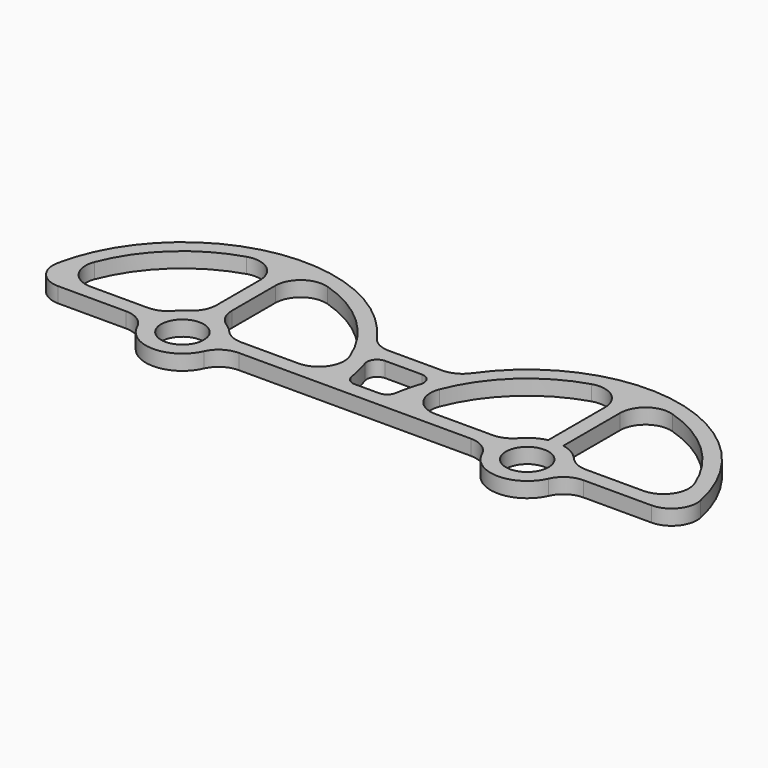
from build123d import *

# Parameters (mm, degrees)
F0_R     = 4.2
F1_DEPTH = 3
F3_DEPTH = 3
F4_R     = 5
F5_R     = 2


with BuildPart() as f1:
    # F0 (on Top) → F1 (new body)
    with BuildSketch(Plane.XY):
        with BuildLine():
            ThreePointArc((6.545227, 3), (7.034402, 1.535312), (7.2, 0))
            Line((7.2, 0), (30, 0))
            Line((30, 0), (38, 0))
            Line((38, 0), (60.8, 0))
            ThreePointArc((60.8, 0), (60.965598, 1.535312), (61.454773, 3))
            Line((61.454773, 3), (41.167184, 3))
            ThreePointArc((41.167184, 3), (68, 27), (94.832816, 3))
            Line((94.832816, 3), (74.545227, 3))
            ThreePointArc((74.545227, 3), (75.034402, 1.535312), (75.2, 0))
            Line((75.2, 0), (98, 0))
            ThreePointArc((98, 0), (75.764571, 28.977775), (42.019238, 15))
            Line((42.019238, 15), (25.980762, 15))
            ThreePointArc((25.980762, 15), (-7.764571, 28.977775), (-30, 0))
            Line((-30, 0), (-7.2, 0))
            ThreePointArc((-7.2, 0), (-7.034402, 1.535312), (-6.545227, 3))
            Line((-6.545227, 3), (-26.832816, 3))
            ThreePointArc((-26.832816, 3), (0, 27), (26.832816, 3))
            Line((26.832816, 3), (6.545227, 3))
        make_face()
        with BuildLine():
            Line((38.150377, 3), (29.849623, 3))
            ThreePointArc((29.849623, 3), (29.023516, 7.591807), (27.495454, 12))
            Line((27.495454, 12), (40.504546, 12))
            ThreePointArc((40.504546, 12), (38.976484, 7.591807), (38.150377, 3))
        make_face(mode=Mode.SUBTRACT)
        with BuildLine():
            ThreePointArc((-7.2, 0), (0, -7.2), (7.2, 0))
            ThreePointArc((7.2, 0), (7.034402, 1.535312), (6.545227, 3))
            ThreePointArc((6.545227, 3), (0, 7.2), (-6.545227, 3))
            ThreePointArc((-6.545227, 3), (-7.034402, 1.535312), (-7.2, 0))
        make_face()
        Circle(F0_R, mode=Mode.SUBTRACT)
        with BuildLine():
            ThreePointArc((61.454773, 3), (60.965598, 1.535312), (60.8, 0))
            ThreePointArc((60.8, 0), (68, -7.2), (75.2, 0))
            ThreePointArc((75.2, 0), (75.034402, 1.535312), (74.545227, 3))
            ThreePointArc((74.545227, 3), (68, 7.2), (61.454773, 3))
        make_face()
        with Locations((68, 0)):
            Circle(F0_R, mode=Mode.SUBTRACT)
    extrude(amount=F1_DEPTH)

    # F2 (on face) → F3 (join, through all)
    with BuildSketch(Plane.XY.offset(3)):
        with BuildLine():
            Line((1.5, 7.042017), (1.5, 26.958301))
            ThreePointArc((1.5, 26.958301), (0.75029, 26.989573), (0, 27))
            Line((0, 27), (0, 7.2))
            ThreePointArc((0, 7.2), (0.754148, 7.160395), (1.5, 7.042017))
        make_face()
        with BuildLine():
            Line((0, 7.2), (0, 27))
            ThreePointArc((0, 27), (-0.75029, 26.989573), (-1.5, 26.958301))
            Line((-1.5, 26.958301), (-1.5, 7.042017))
            ThreePointArc((-1.5, 7.042017), (-0.754148, 7.160395), (0, 7.2))
        make_face()
        with BuildLine():
            Line((68, 7.2), (68, 27))
            ThreePointArc((68, 27), (67.24971, 26.989573), (66.5, 26.958301))
            Line((66.5, 26.958301), (66.5, 7.042017))
            ThreePointArc((66.5, 7.042017), (67.245852, 7.160395), (68, 7.2))
        make_face()
        with BuildLine():
            Line((69.5, 7.042017), (69.5, 26.958301))
            ThreePointArc((69.5, 26.958301), (68.75029, 26.989573), (68, 27))
            Line((68, 27), (68, 7.2))
            ThreePointArc((68, 7.2), (68.754148, 7.160395), (69.5, 7.042017))
        make_face()
    extrude(amount=-F3_DEPTH)

    # F4
    f4_edges = [f1.edges().sort_by_distance(p)[0] for p in [
        (-26.832816, 3, 1.5),
        (26.832816, 3, 1.5),
        (94.832816, 3, 1.5),
        (41.167184, 3, 1.5),
        (-7.2, 0, 1.5),
        (7.2, 0, 1.5),
        (60.8, 0, 1.5),
        (75.2, 0, 1.5),
        (74.545227, 3, 1.5),
        (61.454773, 3, 1.5),
        (-6.545227, 3, 1.5),
        (6.545227, 3, 1.5),
        (25.980762, 15, 1.5),
        (42.019238, 15, 1.5),
        (98, 0, 1.5),
        (-30, 0, 1.5),
        (-1.5, 7.042017, 1.5),
        (1.5, 7.042017, 1.5),
        (1.5, 26.958301, 1.5),
        (-1.5, 26.958301, 1.5),
        (69.5, 26.958301, 1.5),
        (66.5, 26.958301, 1.5),
    ]]
    fillet(f4_edges, radius=F4_R)

    # F5
    f5_edges = [f1.edges().sort_by_distance(p)[0] for p in [
        (27.495454, 12, 1.5),
        (40.504546, 12, 1.5),
        (29.849623, 3, 1.5),
        (38.150377, 3, 1.5),
    ]]
    fillet(f5_edges, radius=F5_R)


solid = f1.part
